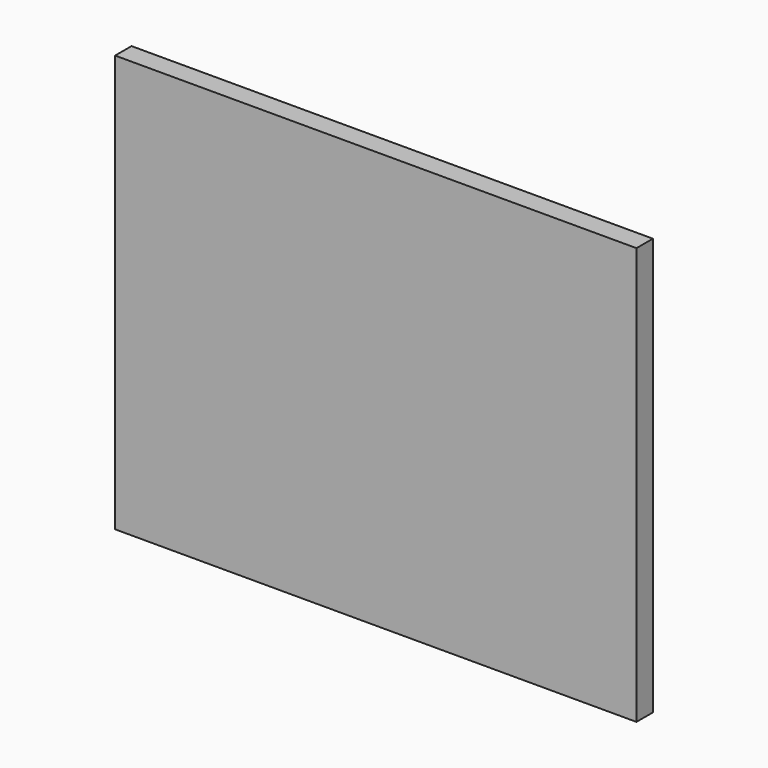
from build123d import *

# Parameters (mm, degrees)
F0_W     = 762
F0_H     = 609.6
F1_DEPTH = 30
F2_W     = 10
F2_H     = 594.36
F3_DEPTH = 596.9
F4_R     = 19.05
F5_DEPTH = 38.1


with BuildPart() as f1:
    # F0 (on Front) → F1 (new body)
    with BuildSketch(Plane.XZ):
        Rectangle(F0_W, F0_H)
    extrude(amount=F1_DEPTH)

    # F2 (on face) → F3 (cut)
    with BuildSketch(Plane(origin=(-381, 0, 0), x_dir=(0, -1, 0), z_dir=(-1, 0, 0))):
        with Locations((15, 0)):
            Rectangle(F2_W, F2_H)
    extrude(amount=-F3_DEPTH, mode=Mode.SUBTRACT)

    # F4 (on face) → F5 (join)
    with BuildSketch(Plane(origin=(0, 0, 0), x_dir=(-1, 0, 0), z_dir=(0, 1, 0))):
        with Locations((-330.2, 254)):
            Circle(F4_R)
        with Locations((330.2, 254)):
            Circle(F4_R)
        with Locations((330.2, -254)):
            Circle(F4_R)
        with Locations((-330.2, -254)):
            Circle(F4_R)
    extrude(amount=F5_DEPTH)


solid = f1.part
